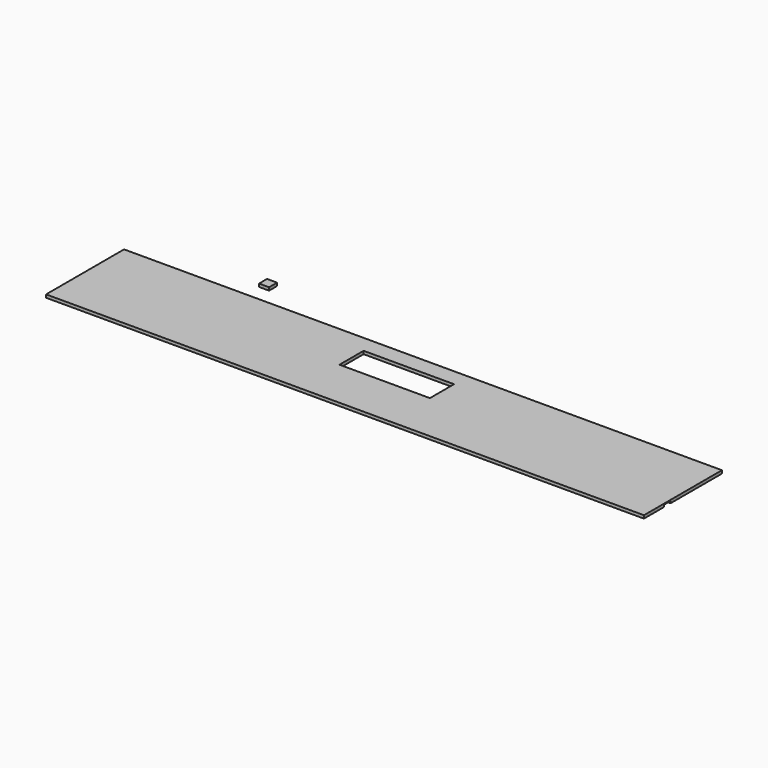
from build123d import *

# Parameters (mm, degrees)
F0_W     = 595
F0_H     = 64
F0_W_2   = 90
F0_H_2   = 30
F0_H_3   = 25
F0_H_4   = 8
F1_DEPTH = 3
F2_DEPTH = 2
F0_W_3   = 10
F0_H_5   = 10
F3_DEPTH = 3


with BuildPart() as f1:
    # F0 (on Top) → F1 (new body)
    with BuildSketch(Plane.XY):
        with Locations((0, 16.5)):
            Rectangle(F0_W, F0_H)
        with Locations((-0.5, 16.5)):
            Rectangle(F0_W_2, F0_H_2, mode=Mode.SUBTRACT)
        with Locations((0, -36)):
            Rectangle(F0_W, F0_H_3)
        with Locations((0, -19.5)):
            Rectangle(F0_W, F0_H_4)
    extrude(amount=F1_DEPTH)

    # F0 (on Top) → F2 (cut)
    with BuildSketch(Plane.XY):
        with Locations((0, -19.5)):
            Rectangle(F0_W, F0_H_4)
    extrude(amount=F2_DEPTH, mode=Mode.SUBTRACT)


with BuildPart() as f3:
    # F0 (on Top) → F3 (new body)
    with BuildSketch(Plane.XY):
        with Locations((-174.657474, 74.083489)):
            Rectangle(F0_W_3, F0_H_5)
    extrude(amount=F3_DEPTH)


solid = Compound([f1.part, f3.part])
